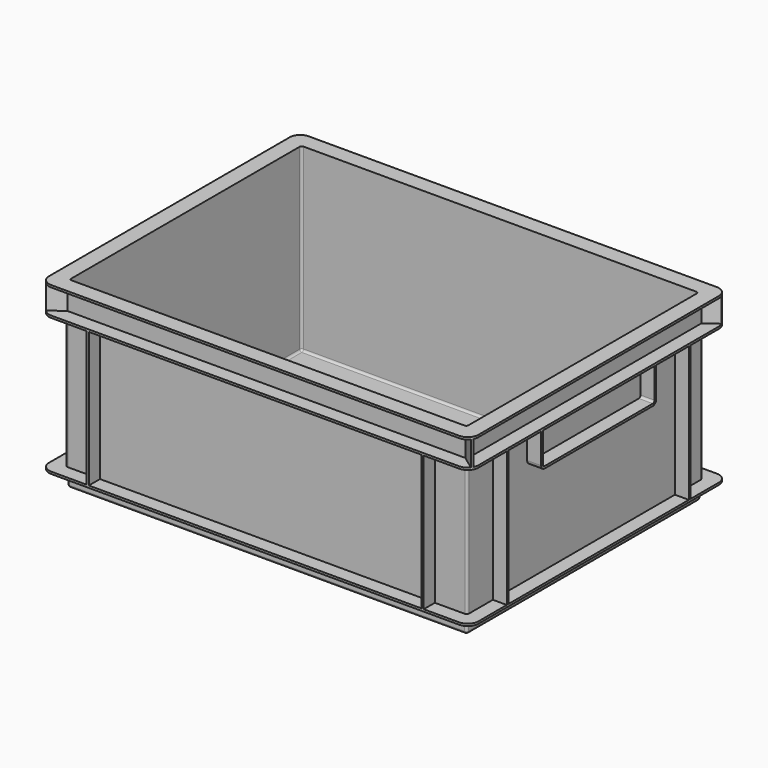
from build123d import *

# Parameters (mm, degrees)
F0_W      = 372
F0_H      = 272
F1_DEPTH  = 15
F2_W      = 372
F2_H      = 272
F3_DEPTH  = 2
F5_DEPTH  = 126
F7_DEPTH  = 2
F9_DEPTH  = 23
F11_DEPTH = 2
F12_W     = 370
F12_H     = 270
F13_DEPTH = 168
F15_DEPTH = 13
F17_DEPTH = 13
F18_R     = 2


with BuildPart() as f1:
    # F0 (on Top) → F1 (new body)
    with BuildSketch(Plane.XY):
        Rectangle(F0_W, F0_H)
    extrude(amount=F1_DEPTH)

    # F2 (on face) → F3 (join)
    with BuildSketch(Plane.XY.offset(15)):
        with BuildLine():
            Line((-190, -150), (190, -150))
            ThreePointArc((190, -150), (197.0710678119, -147.0710678119), (200, -140))
            Line((200, -140), (200, 140))
            ThreePointArc((200, 140), (197.0710678119, 147.0710678119), (190, 150))
            Line((190, 150), (-190, 150))
            ThreePointArc((-190, 150), (-197.0710678119, 147.0710678119), (-200, 140))
            Line((-200, 140), (-200, -140))
            ThreePointArc((-200, -140), (-197.0710678119, -147.0710678119), (-190, -150))
        make_face()
        Rectangle(F2_W, F2_H, mode=Mode.SUBTRACT)
        Rectangle(F2_W, F2_H)
    extrude(amount=F3_DEPTH)

    # F4 (on face) → F5 (join)
    with BuildSketch(Plane.XY.offset(17)):
        Polygon((157, -137), (187, -137), (187, -107), (200, -107), (200, -105), (187, -105), (187, 105), (200, 105), (200, 107), (187, 107), (187, 137), (157, 137), (157, 150), (155, 150), (155, 137), (-155, 137), (-155, 150), (-157, 150), (-157, 137), (-187, 137), (-187, 107), (-200, 107), (-200, 105), (-187, 105), (-187, -105), (-200, -105), (-200, -107), (-187, -107), (-187, -137), (-157, -137), (-157, -150), (-155, -150), (-155, -137), (155, -137), (155, -150), (157, -150), align=None)
    extrude(amount=F5_DEPTH)

    # F6 (on face) → F7 (join)
    with BuildSketch(Plane.XY.offset(143)):
        with BuildLine():
            Line((190, 150), (-190, 150))
            ThreePointArc((-190, 150), (-197.0710678119, 147.0710678119), (-200, 140))
            Line((-200, 140), (-200, -140))
            ThreePointArc((-200, -140), (-197.0710678119, -147.0710678119), (-190, -150))
            Line((-190, -150), (190, -150))
            ThreePointArc((190, -150), (197.0710678119, -147.0710678119), (200, -140))
            Line((200, -140), (200, 140))
            ThreePointArc((200, 140), (197.0710678119, 147.0710678119), (190, 150))
        make_face()
    extrude(amount=F7_DEPTH)

    # F8 (on face) → F9 (join)
    with BuildSketch(Plane.XY.offset(145)):
        with BuildLine():
            Line((-185.3079227659, -137), (185.3079227659, -137))
            Line((185.3079227659, -137), (197.8531877713, -146.1909160735))
            ThreePointArc((197.8531877713, -146.1909160735), (198.4340605379, -145.3727667773), (198.9300207482, -144.5005254622))
            Line((198.9300207482, -144.5005254622), (187, -135.7603498338))
            Line((187, -135.7603498338), (187, 135.7603498338))
            Line((187, 135.7603498338), (198.9300207482, 144.5005254622))
            ThreePointArc((198.9300207482, 144.5005254622), (198.4340605379, 145.3727667773), (197.8531877713, 146.1909160735))
            Line((197.8531877713, 146.1909160735), (185.3079227659, 137))
            Line((185.3079227659, 137), (-185.3079227659, 137))
            Line((-185.3079227659, 137), (-197.8531877713, 146.1909160735))
            ThreePointArc((-197.8531877713, 146.1909160735), (-198.4340605379, 145.3727667773), (-198.9300207482, 144.5005254622))
            Line((-198.9300207482, 144.5005254622), (-187, 135.7603498338))
            Line((-187, 135.7603498338), (-187, -135.7603498338))
            Line((-187, -135.7603498338), (-198.9300207482, -144.5005254622))
            ThreePointArc((-198.9300207482, -144.5005254622), (-198.4340605379, -145.3727667773), (-197.8531877713, -146.1909160735))
            Line((-197.8531877713, -146.1909160735), (-185.3079227659, -137))
        make_face()
    extrude(amount=F9_DEPTH)

    # F10 (on face) → F11 (join)
    with BuildSketch(Plane.XY.offset(168)):
        with BuildLine():
            Line((-190, -150), (190, -150))
            ThreePointArc((190, -150), (197.0710678119, -147.0710678119), (200, -140))
            Line((200, -140), (200, 140))
            ThreePointArc((200, 140), (197.0710678119, 147.0710678119), (190, 150))
            Line((190, 150), (-190, 150))
            ThreePointArc((-190, 150), (-197.0710678119, 147.0710678119), (-200, 140))
            Line((-200, 140), (-200, -140))
            ThreePointArc((-200, -140), (-197.0710678119, -147.0710678119), (-190, -150))
        make_face()
    extrude(amount=F11_DEPTH)

    # F12 (on face) → F13 (cut)
    with BuildSketch(Plane.XY.offset(170)):
        Rectangle(F12_W, F12_H)
    extrude(amount=-F13_DEPTH, mode=Mode.SUBTRACT)

    # F14 (on face) → F15 (join, through all)
    with BuildSketch(Plane(origin=(-187, 0, 0), x_dir=(0, -1, 0), z_dir=(-1, 0, 0))):
        with BuildLine():
            Line((-63, 111), (63, 111))
            ThreePointArc((63, 111), (65.8284271247, 112.1715728753), (67, 115))
            Line((67, 115), (67, 143))
            Line((67, 143), (65, 143))
            Line((65, 143), (65, 115))
            ThreePointArc((65, 115), (64.4142135624, 113.5857864376), (63, 113))
            Line((63, 113), (-63, 113))
            ThreePointArc((-63, 113), (-64.4142135624, 113.5857864376), (-65, 115))
            Line((-65, 115), (-65, 143))
            Line((-65, 143), (-67, 143))
            Line((-67, 143), (-67, 115))
            ThreePointArc((-67, 115), (-65.8284271247, 112.1715728753), (-63, 111))
        make_face()
    extrude(amount=F15_DEPTH)

    # F16 (on face) → F17 (join, through all)
    with BuildSketch(Plane.YZ.offset(187)):
        with BuildLine():
            ThreePointArc((63, 111), (65.8284271247, 112.1715728753), (67, 115))
            Line((67, 115), (67, 143))
            Line((67, 143), (65, 143))
            Line((65, 143), (65, 115))
            ThreePointArc((65, 115), (64.4142135624, 113.5857864376), (63, 113))
            Line((63, 113), (-63, 113))
            ThreePointArc((-63, 113), (-64.4142135624, 113.5857864376), (-65, 115))
            Line((-65, 115), (-65, 143))
            Line((-65, 143), (-67, 143))
            Line((-67, 143), (-67, 115))
            ThreePointArc((-67, 115), (-65.8284271247, 112.1715728753), (-63, 111))
            Line((-63, 111), (63, 111))
        make_face()
    extrude(amount=F17_DEPTH)

    # F18
    f18_edges = [f1.edges().sort_by_distance(p)[0] for p in [
        (-185, -135, 86),
        (185, -135, 86),
        (185, 135, 86),
        (0, 135, 2),
        (185, 0, 2),
        (0, -135, 2),
        (-185, 0, 2),
        (-185, 135, 86),
        (187, -137, 80),
        (187, 137, 80),
        (-187, 137, 80),
        (-187, -137, 80),
        (186, 0, 0),
        (0, 136, 0),
        (186, 136, 7.5),
        (0, -136, 0),
        (186, -136, 7.5),
        (-186, -136, 7.5),
        (-186, 0, 0),
        (-186, 136, 7.5),
    ]]
    fillet(f18_edges, radius=F18_R)


solid = f1.part
